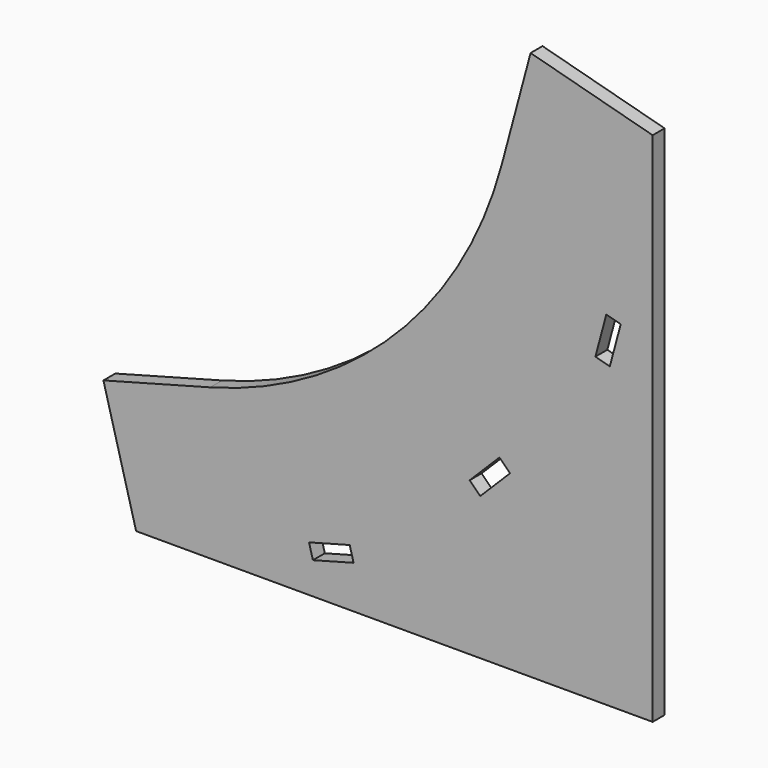
from build123d import *

# Parameters (mm, degrees)
F2_DEPTH = 4.5


with BuildPart() as f2:
    # F1 (on Front) → F2 (new body, symmetric)
    with BuildSketch(Plane.XZ):
        with BuildLine():
            Line((-111.549449, -64.403104), (-175.952554, -81.659864))
            Line((-175.952554, -81.659864), (-156.230542, -155.263412))
            Line((-156.230542, -155.263412), (155.263412, -155.263412))
            Line((155.263412, -155.263412), (155.263412, 156.230542))
            Line((155.263412, 156.230542), (81.659864, 175.952554))
            Line((81.659864, 175.952554), (64.403104, 111.549449))
            ThreePointArc((64.403104, 111.549449), (0, 0), (-111.549449, -64.403104))
        make_face()
        Polygon((-49.629478, -136.017229), (-51.958849, -127.323896), (-27.424333, -120.749893), (-25.094962, -129.443225), align=None, mode=Mode.SUBTRACT)
        Polygon((51.265242, -69.225754), (44.901281, -62.861793), (62.861793, -44.901281), (69.225754, -51.265242), align=None, mode=Mode.SUBTRACT)
        Polygon((129.443225, 25.094962), (120.749893, 27.424333), (127.323896, 51.958849), (136.017229, 49.629478), align=None, mode=Mode.SUBTRACT)
    extrude(amount=F2_DEPTH, both=True)


solid = f2.part
